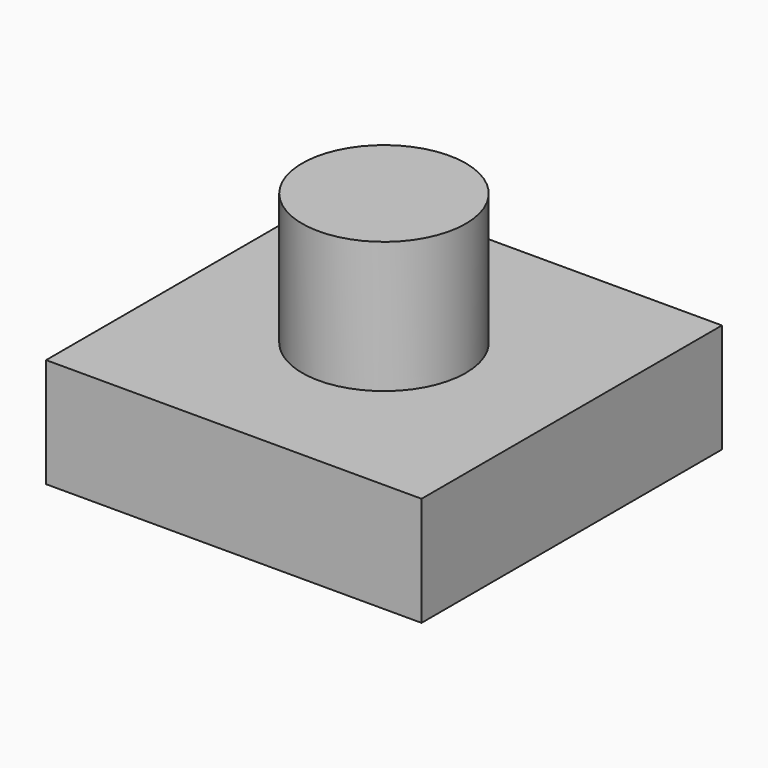
from build123d import *

# Parameters (mm, degrees)
F0_W     = 7.8
F0_H     = 7.8
F0_R     = 1.7
F1_DEPTH = 2.27
F2_DEPTH = 5


with BuildPart() as f1:
    # F0 (on Top) → F1 (new body)
    with BuildSketch(Plane.XY):
        Rectangle(F0_W, F0_H)
        Circle(F0_R, mode=Mode.SUBTRACT)
        Circle(F0_R)
    extrude(amount=F1_DEPTH)

    # F0 (on Top) → F2 (join)
    with BuildSketch(Plane.XY):
        Circle(F0_R)
    extrude(amount=F2_DEPTH)


solid = f1.part
